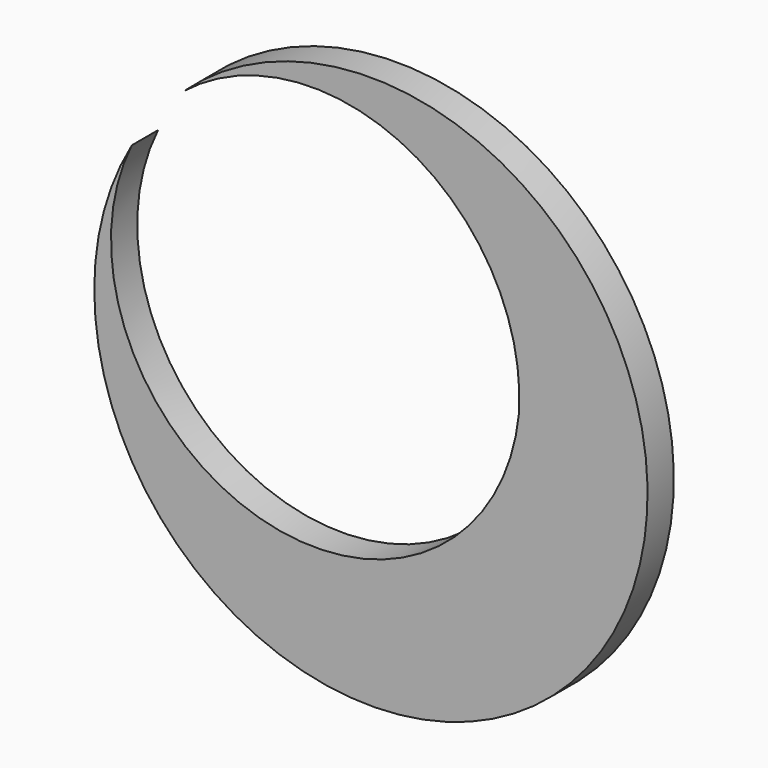
from build123d import *

# Parameters (mm, degrees)
F1_DEPTH = 5.08


with BuildPart() as f1:
    # F0 (on Front) → F1 (new body)
    with BuildSketch(Plane.XZ):
        with BuildLine():
            ThreePointArc((26.747763, 0), (-13.471937, -27.165206), (-33.167393, 17.193126))
            ThreePointArc((-33.167393, 17.193126), (37.234869, -31.182313), (-25.17486, 27.141673))
            ThreePointArc((-25.17486, 27.141673), (9.660954, 30.547957), (26.747763, 0))
        make_face()
    extrude(amount=F1_DEPTH)


solid = f1.part
